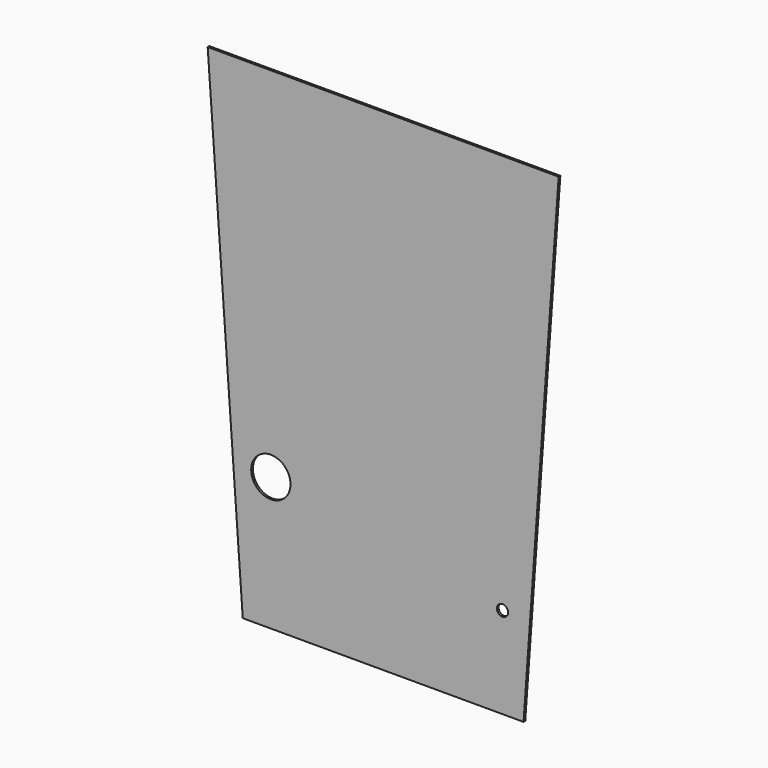
from build123d import *

# Parameters (mm, degrees)
F1_DEPTH = 1.5
F3_D     = 28
F4_D     = 8


with BuildPart() as f1:
    # F0 (on Front) → F1 (new body)
    with BuildSketch(Plane.XZ):
        Polygon((125.04598, 74.155715), (0.04598, 74.155715), (0.04598, -275.844285), (100.04598, -275.844285), align=None)
        Polygon((0.04598, -275.844285), (0.04598, 74.155715), (-124.95402, 74.155715), (-99.95402, -275.844285), align=None)
    extrude(amount=F1_DEPTH)

    # F3 (through all)
    with Locations(Plane.XZ.offset(1.5)):
        with Locations((-79.95402, -180.844285)):
            Hole(F3_D / 2)

    # F4 (through all)
    with Locations(Plane.XZ.offset(1.5)):
        with Locations((85.04598, -210.844285)):
            Hole(F4_D / 2)


solid = f1.part
